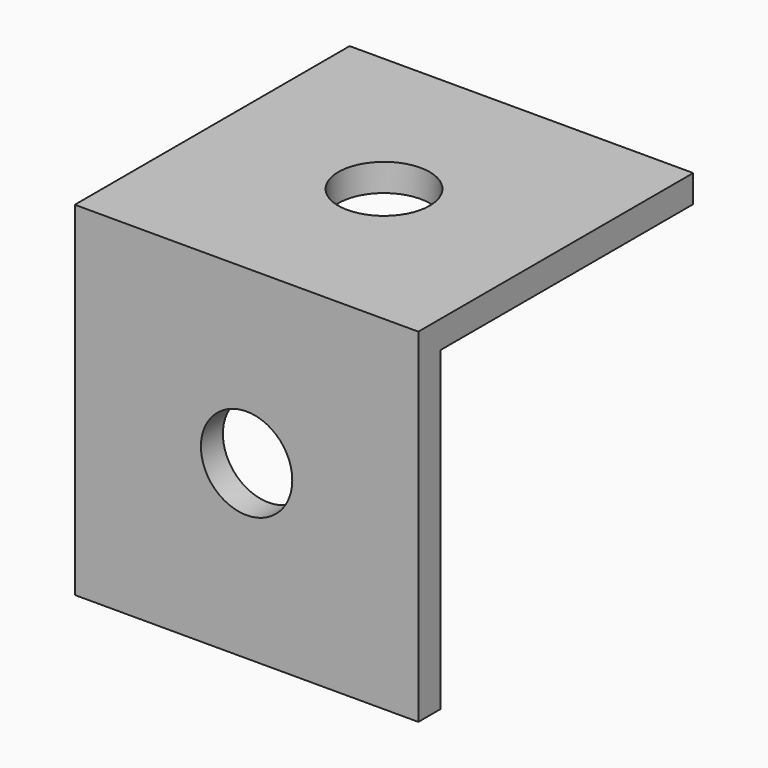
from build123d import *

# Parameters (mm, degrees)
SKETCH_W     = 25.4
SKETCH_H     = 25.4
SKETCH_R     = 3.3782
PAD_DEPTH    = 2.032
SKETCH001_W  = 25.4
SKETCH001_H  = 25.4
SKETCH001_R  = 3.3782
PAD001_DEPTH = 2.032


with BuildPart() as part:
    # Sketch → Pad (new body)
    with BuildSketch(Plane.XY):
        Rectangle(SKETCH_W, SKETCH_H)
        Circle(SKETCH_R, mode=Mode.SUBTRACT)
    extrude(amount=PAD_DEPTH)

    # Sketch001 (on Face2 of Pad) → Pad001 (join)
    with BuildSketch(Plane.XZ.offset(12.7)):
        with Locations((0, -10.668)):
            Rectangle(SKETCH001_W, SKETCH001_H)
        with Locations((0, -10.668)):
            Circle(SKETCH001_R, mode=Mode.SUBTRACT)
    extrude(amount=-PAD001_DEPTH)


solid = part.part
